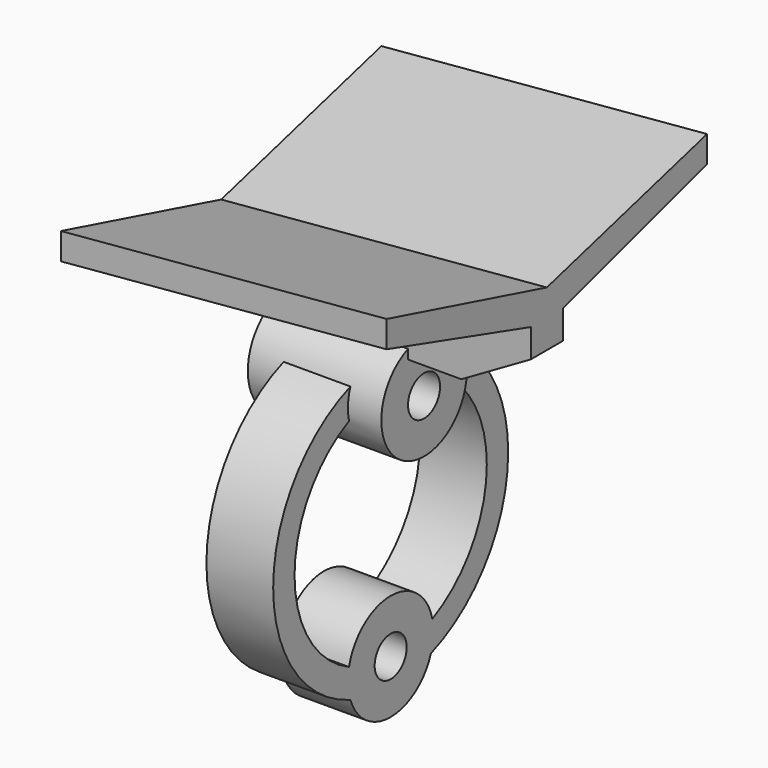
from build123d import *

# Parameters (mm, degrees)
F0_R     = 4
F0_R_2   = 1.5
F1_DEPTH = 10
F3_DEPTH = 1.5
F8_R     = 1.5
F9_DEPTH = 5


with BuildPart() as f1:
    # F0 (on Right) → F1 (new body)
    with BuildSketch(Plane.YZ):
        Circle(F0_R)
        Circle(F0_R_2, mode=Mode.SUBTRACT)
    extrude(amount=F1_DEPTH)

    # F2 (on Front) → F3 (join, symmetric)
    with BuildSketch(Plane.XZ):
        Polygon((-5.1961524227, 6), (0, 3), (14, 3), (19.1961524227, 6), (19.1961524227, 10.1340501512), (-5.1961524227, 8), align=None)
    extrude(amount=F3_DEPTH, both=True)

    # F6: sweep along a path in F5
    with BuildLine(Plane(origin=(-0.7340633262, 0, 8.3903822116), x_dir=(0.9961946981, 0, 0.0871557427), z_dir=(-0.0871557427, 0, 0.9961946981))) as f6_path:
        Line((-4.479133552, 0), (20.0063459352, 0))
    # F4 (on face) → F6 (sweep)
    with BuildSketch(Plane(origin=(-5.1961524227, 0, 0), x_dir=(0, -1, 0), z_dir=(-1, 0, 0))):
        Polygon((15, 12.0192378865), (0, 8), (1.5, 6), (15, 10.0192378865), align=None)
        Polygon((-1.5, 6), (0, 8), (-15, 12.0192378865), (-15, 10.0192378865), align=None)
    sweep(path=f6_path.line)

    # F8 (on offset) → F9 (join)
    with BuildSketch(Plane(origin=(7.5, 0, 0), x_dir=(0, -1, 0), z_dir=(-1, 0, 0))):
        with BuildLine():
            ThreePointArc((3.8999841722, -0.8888888889), (9, -9), (3.8999841722, -17.1111111111))
            ThreePointArc((3.8999841722, -17.1111111111), (0, -14), (-3.8999841722, -17.1111111111))
            ThreePointArc((-3.8999841722, -17.1111111111), (-9, -9), (-3.8999841722, -0.8888888889))
            ThreePointArc((-3.8999841722, -0.8888888889), (-3.9933035559, 0.2313584026), (-3.7712361921, 1.3333332605))
            ThreePointArc((-3.7712361921, 1.3333332605), (-10.9999999404, -9), (-3.7712361921, -19.3333332605))
            ThreePointArc((-3.7712361921, -19.3333332605), (0, -22), (3.7712361921, -19.3333332605))
            ThreePointArc((3.7712361921, -19.3333332605), (10.9999999404, -9), (3.7712361921, 1.3333332605))
            ThreePointArc((3.7712361921, 1.3333332605), (3.9933035559, 0.2313584026), (3.8999841722, -0.8888888889))
        make_face()
        with Locations((0, -18)):
            Circle(F8_R, mode=Mode.SUBTRACT)
    extrude(amount=F9_DEPTH)


solid = f1.part
